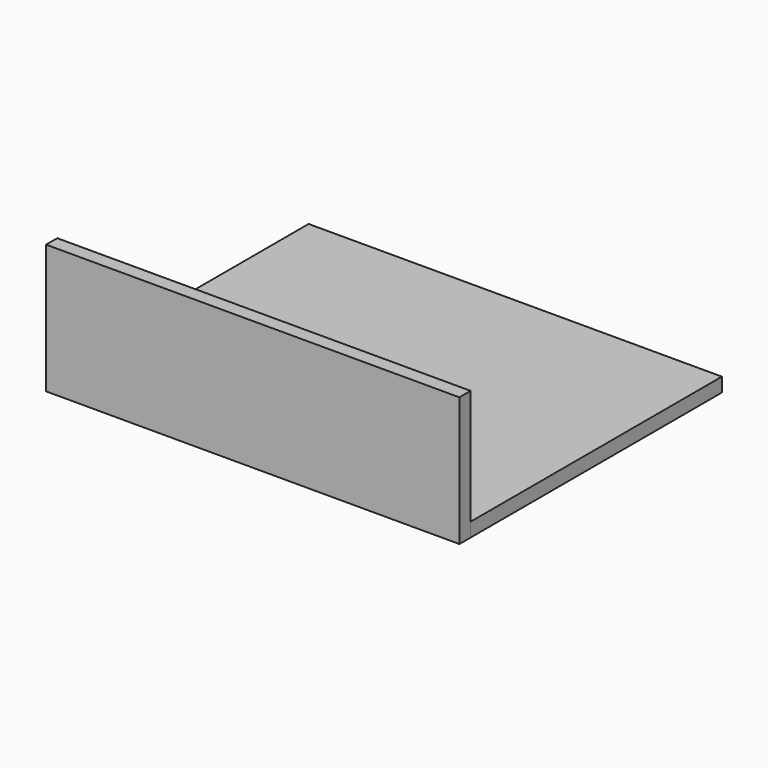
from build123d import *

# Parameters (mm, degrees)
SKETCH_W     = 147.5
SKETCH_H     = 112.1
PAD_DEPTH    = 5
SKETCH001_W  = 147.5
SKETCH001_H  = 5
PAD001_DEPTH = 46.1


with BuildPart() as base_plate:
    # Sketch → Pad (new body)
    with BuildSketch(Plane.XY):
        with Locations((73.75, 56.05)):
            Rectangle(SKETCH_W, SKETCH_H)
    extrude(amount=PAD_DEPTH)


with BuildPart() as side_plate1:
    # Sketch001 → Pad001 (new body)
    with BuildSketch(Plane.XY):
        with Locations((73.75, -2.5)):
            Rectangle(SKETCH001_W, SKETCH001_H)
    extrude(amount=PAD001_DEPTH)


solid = Compound([base_plate.part, side_plate1.part])
